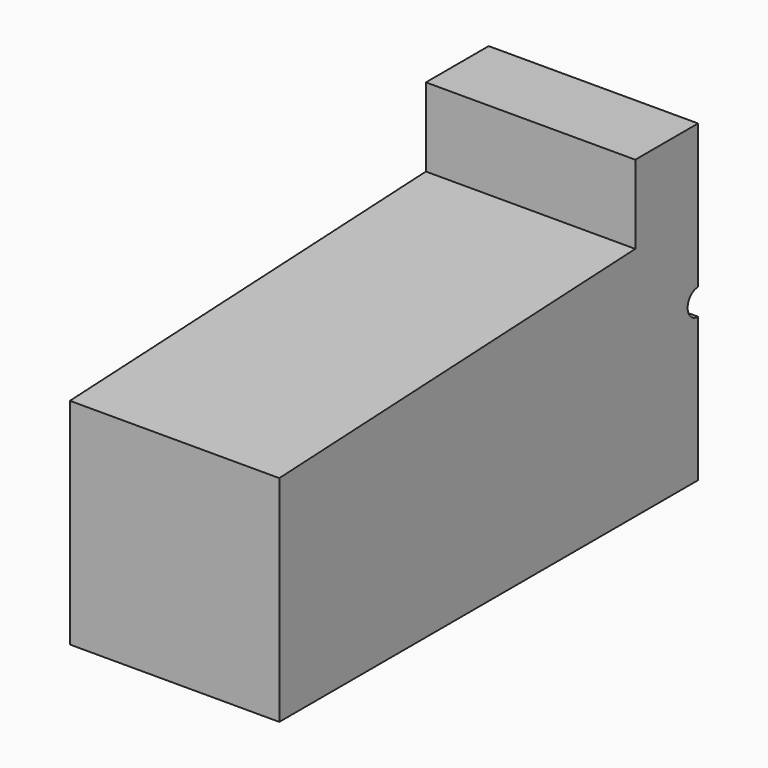
from build123d import *

# Parameters (mm, degrees)
F0_W     = 4
F0_H     = 6
F1_DEPTH = 10
F4_DEPTH = 25


with BuildPart() as f1:
    # F0 (on Front) → F1 (new body)
    with BuildSketch(Plane.XZ):
        Rectangle(F0_W, F0_H)
    extrude(amount=F1_DEPTH)

    # F3 (on face) → F4 (cut)
    with BuildSketch(Plane(origin=(-2, 0, 0), x_dir=(0, -1, 0), z_dir=(-1, 0, 0))):
        Polygon((1.5, 3), (1.5, 1.5), (10, 1.1), (10, 3), align=None)
        with BuildLine():
            ThreePointArc((0.25, 0), (0.1767766953, 0.1767766953), (0, 0.25))
            Line((0, 0.25), (0, -0.25))
            ThreePointArc((0, -0.25), (0.1767766953, -0.1767766953), (0.25, 0))
        make_face()
    extrude(amount=-F4_DEPTH, mode=Mode.SUBTRACT)


solid = f1.part
